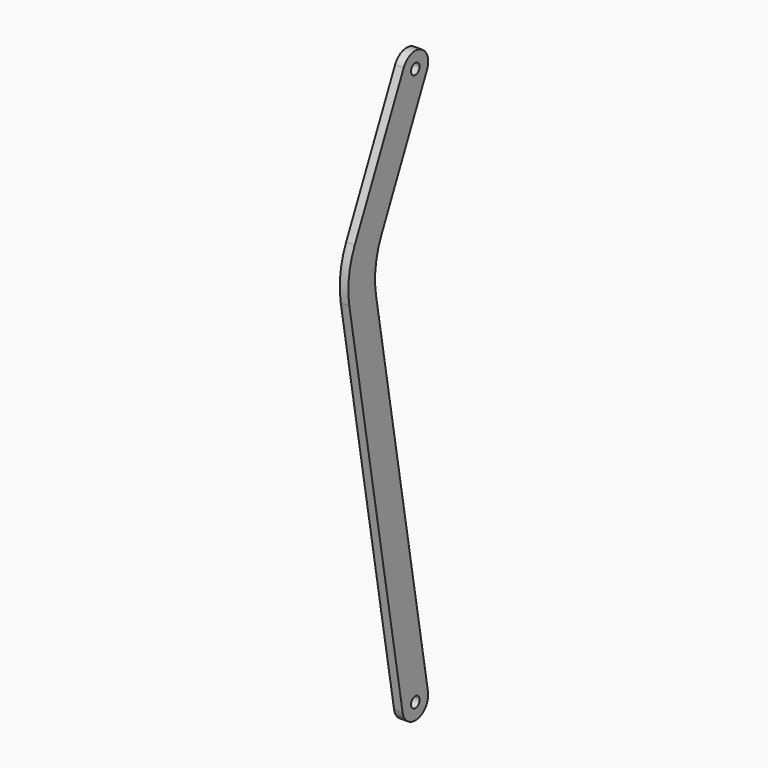
from build123d import *

# Parameters (mm, degrees)
F0_R     = 1.5875
F1_DEPTH = 2.54
F2_R     = 25.4


with BuildPart() as f1:
    # F0 (on Right) → F1 (new body)
    with BuildSketch(Plane.YZ):
        with BuildLine():
            ThreePointArc((4.316291, 163.087281), (2.012719, 169.416291), (-4.316291, 167.112719))
            Line((-4.316291, 167.112719), (-25.785299, 121.072284))
            Line((-25.785299, 121.072284), (-4.69275, -0.812098))
            ThreePointArc((-4.69275, -0.812098), (0.812098, -4.69275), (4.69275, 0.812098))
            Line((4.69275, 0.812098), (-15.890526, 119.753622))
            Line((-15.890526, 119.753622), (4.316291, 163.087281))
        make_face()
        Circle(F0_R, mode=Mode.SUBTRACT)
        with Locations((0, 165.1)):
            Circle(F0_R, mode=Mode.SUBTRACT)
    extrude(amount=F1_DEPTH)

    # F2
    f2_edges = [f1.edges().sort_by_distance(p)[0] for p in [
        (1.27, -15.890526, 119.753622),
        (1.27, -25.785299, 121.072284),
    ]]
    fillet(f2_edges, radius=F2_R)


solid = f1.part
